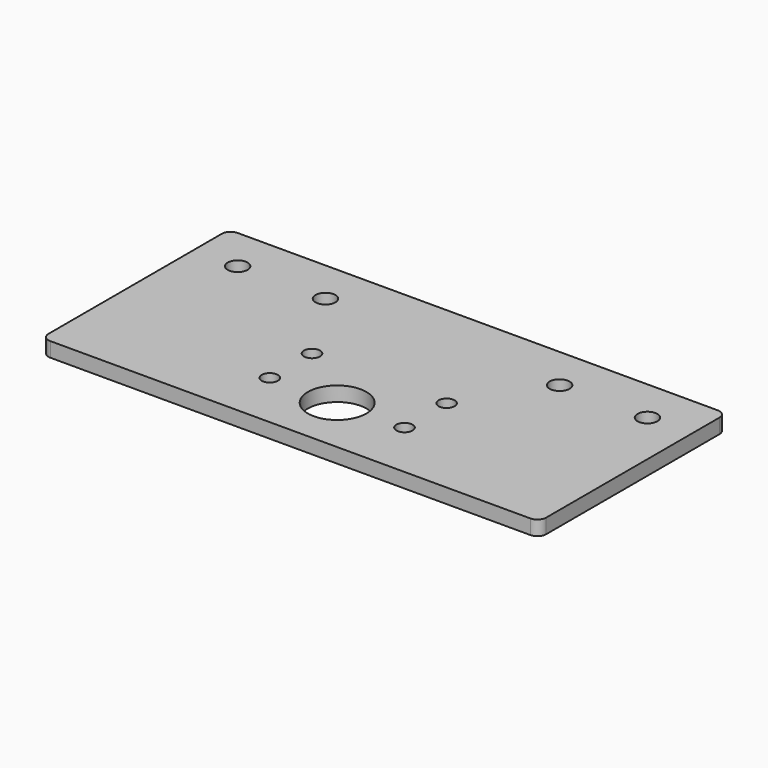
from build123d import *

# Parameters (mm, degrees)
F0_W     = 170
F0_H     = 80
F1_DEPTH = 2.5
F2_R     = 3.4
F2_R_2   = 10
F2_R_3   = 2.75
F3_DEPTH = 5
F4_R     = 3


with BuildPart() as f1:
    # F0 (on Top) → F1 (new body, symmetric)
    with BuildSketch(Plane.XY):
        Rectangle(F0_W, F0_H)
    extrude(amount=F1_DEPTH, both=True)

    # F2 (on face) → F3 (cut)
    with BuildSketch(Plane.XY.offset(2.5)):
        with Locations((40, 25)):
            Circle(F2_R)
        with Locations((70, 25)):
            Circle(F2_R)
        with Locations((-40, 25)):
            Circle(F2_R)
        with Locations((-70, 25)):
            Circle(F2_R)
        with Locations((0, -20)):
            Circle(F2_R_2)
        with Locations((-23, -2)):
            Circle(F2_R_3)
        with Locations((-23, -20)):
            Circle(F2_R_3)
        with Locations((23, -2)):
            Circle(F2_R_3)
        with Locations((23, -20)):
            Circle(F2_R_3)
    extrude(amount=-F3_DEPTH, mode=Mode.SUBTRACT)

    # F4
    f4_edges = [f1.edges().sort_by_distance(p)[0] for p in [
        (-85, -40, 0),
        (85, -40, 0),
        (-85, 40, 0),
        (85, 40, 0),
    ]]
    fillet(f4_edges, radius=F4_R)


solid = f1.part
